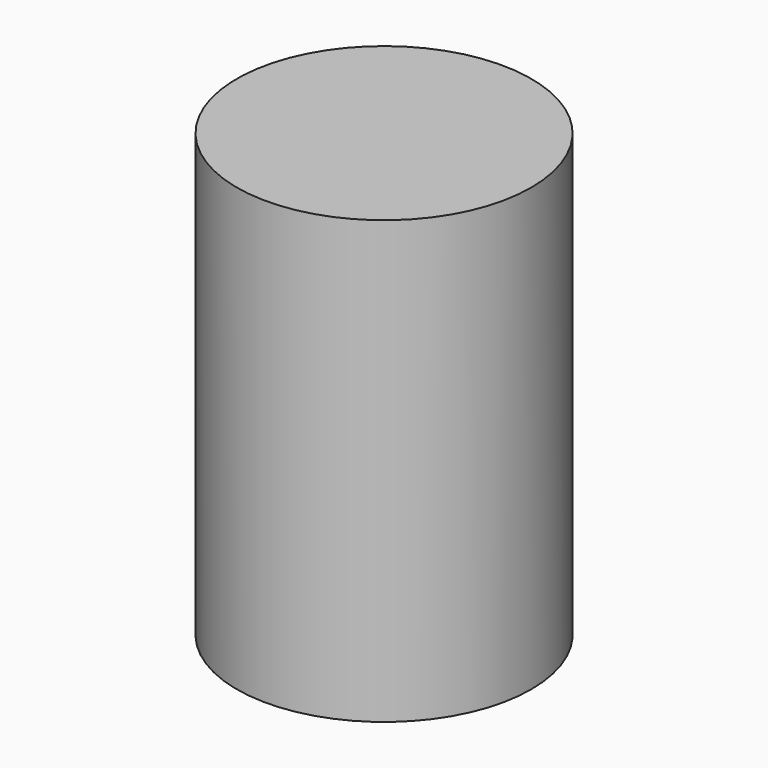
from build123d import *

# Parameters (mm, degrees)
CYLINDER_R     = 10
CYLINDER_DEPTH = 30


with BuildPart() as part:
    # Cylinder → Cylinder (new body)
    with BuildSketch(Plane.XY):
        Circle(CYLINDER_R)
    extrude(amount=CYLINDER_DEPTH)


solid = part.part
